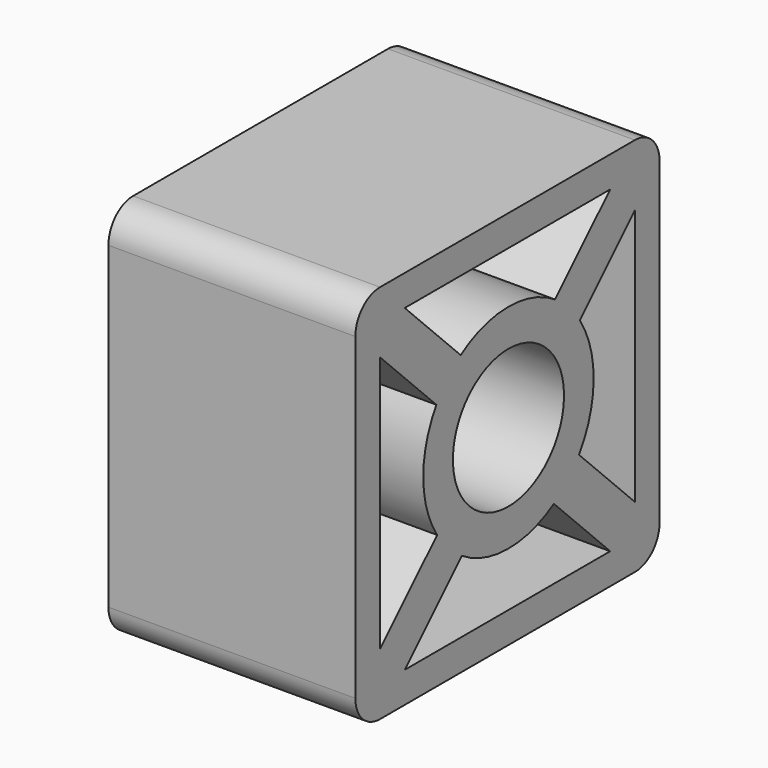
from build123d import *

# Parameters (mm, degrees)
F0_R     = 14.2875
F1_DEPTH = 50.8
F3_DEPTH = 50.8
F2_R     = 15.5575
F2_R_2   = 14.2875
F4_DEPTH = 1.524


with BuildPart() as f1:
    # F0 (on Right) → F1 (new body)
    with BuildSketch(Plane.YZ):
        with BuildLine():
            Line((32.512, 38.862), (-33.02, 38.862))
            ThreePointArc((-33.02, 38.862), (-37.510128, 37.002128), (-39.37, 32.512))
            Line((-39.37, 32.512), (-39.37, -33.02))
            ThreePointArc((-39.37, -33.02), (-37.510128, -37.510128), (-33.02, -39.37))
            Line((-33.02, -39.37), (32.512, -39.37))
            ThreePointArc((32.512, -39.37), (37.002128, -37.510128), (38.862, -33.02))
            Line((38.862, -33.02), (38.862, 32.512))
            ThreePointArc((38.862, 32.512), (37.002128, 37.002128), (32.512, 38.862))
        make_face()
        with BuildLine():
            Line((11.677662, -18.535662), (26.162, -33.02))
            Line((26.162, -33.02), (-26.67, -33.02))
            Line((-26.67, -33.02), (-11.987079, -18.337079))
            ThreePointArc((-11.987079, -18.337079), (-0.18383, -21.906729), (11.677662, -18.535662))
        make_face(mode=Mode.SUBTRACT)
        with BuildLine():
            Line((-33.02, -26.67), (-33.02, 26.162))
            Line((-33.02, 26.162), (-18.535662, 11.677662))
            ThreePointArc((-18.535662, 11.677662), (-21.906729, -0.18383), (-18.337079, -11.987079))
            Line((-18.337079, -11.987079), (-33.02, -26.67))
        make_face(mode=Mode.SUBTRACT)
        Circle(F0_R, mode=Mode.SUBTRACT)
        with BuildLine():
            Line((18.337079, 11.987079), (32.512, 26.162))
            Line((32.512, 26.162), (32.512, -26.67))
            Line((32.512, -26.67), (18.134055, -12.292055))
            ThreePointArc((18.134055, -12.292055), (21.906734, -0.183186), (18.337079, 11.987079))
        make_face(mode=Mode.SUBTRACT)
        with BuildLine():
            Line((-26.67, 32.512), (26.162, 32.512))
            Line((26.162, 32.512), (11.987079, 18.337079))
            ThreePointArc((11.987079, 18.337079), (-0.183186, 21.906734), (-12.292055, 18.134055))
            Line((-12.292055, 18.134055), (-26.67, 32.512))
        make_face(mode=Mode.SUBTRACT)
    extrude(amount=F1_DEPTH)


with BuildPart() as f3:
    # F0 (on Right) → F3 (new body)
    with BuildSketch(Plane.YZ):
        with BuildLine():
            Line((32.512, 38.862), (-33.02, 38.862))
            ThreePointArc((-33.02, 38.862), (-37.510128, 37.002128), (-39.37, 32.512))
            Line((-39.37, 32.512), (-39.37, -33.02))
            ThreePointArc((-39.37, -33.02), (-37.510128, -37.510128), (-33.02, -39.37))
            Line((-33.02, -39.37), (32.512, -39.37))
            ThreePointArc((32.512, -39.37), (37.002128, -37.510128), (38.862, -33.02))
            Line((38.862, -33.02), (38.862, 32.512))
            ThreePointArc((38.862, 32.512), (37.002128, 37.002128), (32.512, 38.862))
        make_face()
        with BuildLine():
            Line((11.677662, -18.535662), (26.162, -33.02))
            Line((26.162, -33.02), (-26.67, -33.02))
            Line((-26.67, -33.02), (-11.987079, -18.337079))
            ThreePointArc((-11.987079, -18.337079), (-0.18383, -21.906729), (11.677662, -18.535662))
        make_face(mode=Mode.SUBTRACT)
        with BuildLine():
            Line((-33.02, -26.67), (-33.02, 26.162))
            Line((-33.02, 26.162), (-18.535662, 11.677662))
            ThreePointArc((-18.535662, 11.677662), (-21.906729, -0.18383), (-18.337079, -11.987079))
            Line((-18.337079, -11.987079), (-33.02, -26.67))
        make_face(mode=Mode.SUBTRACT)
        Circle(F0_R, mode=Mode.SUBTRACT)
        with BuildLine():
            Line((18.337079, 11.987079), (32.512, 26.162))
            Line((32.512, 26.162), (32.512, -26.67))
            Line((32.512, -26.67), (18.134055, -12.292055))
            ThreePointArc((18.134055, -12.292055), (21.906734, -0.183186), (18.337079, 11.987079))
        make_face(mode=Mode.SUBTRACT)
        with BuildLine():
            Line((-26.67, 32.512), (26.162, 32.512))
            Line((26.162, 32.512), (11.987079, 18.337079))
            ThreePointArc((11.987079, 18.337079), (-0.183186, 21.906734), (-12.292055, 18.134055))
            Line((-12.292055, 18.134055), (-26.67, 32.512))
        make_face(mode=Mode.SUBTRACT)
    extrude(amount=F3_DEPTH)


with BuildPart() as f4_tool:
    # F2 (on Right) → F4 (new body)
    with BuildSketch(Plane.YZ):
        Circle(F2_R)
        Circle(F2_R_2, mode=Mode.SUBTRACT)
    extrude(amount=F4_DEPTH)


with BuildPart() as f1_1:
    add(f1.part)

    # F4: cut by f4_tool
    add(f4_tool.part, mode=Mode.SUBTRACT)


with BuildPart() as f3_1:
    add(f3.part)

    # F4: cut by f4_tool
    add(f4_tool.part, mode=Mode.SUBTRACT)


solid = Compound([f1_1.part, f3_1.part])
